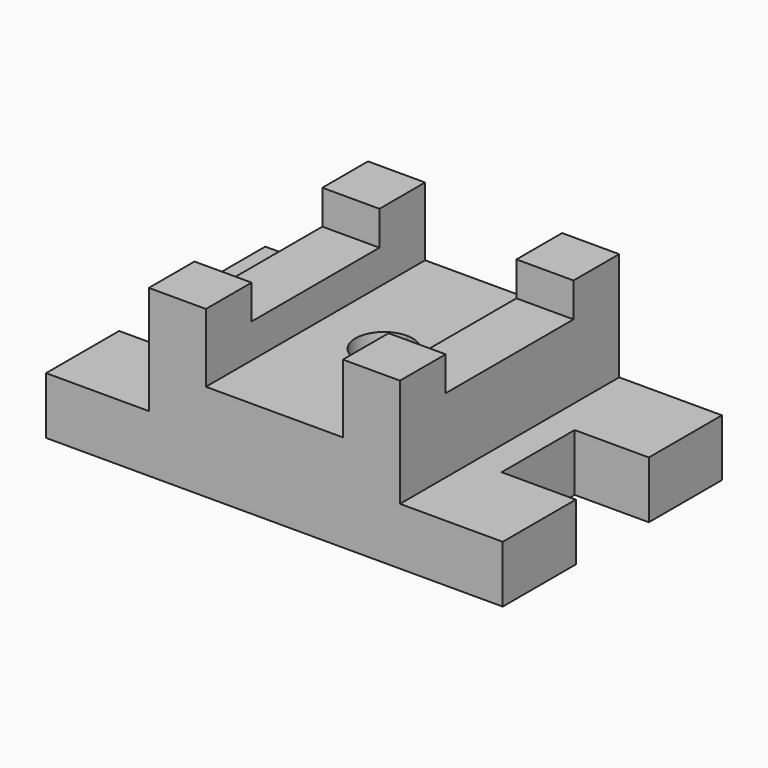
from build123d import *

# Parameters (mm, degrees)
F1_DEPTH = 53.975
F2_DEPTH = 31.75
F0_W     = 31.75
F0_H     = 31.75
F3_DEPTH = 92.075
F0_H_2   = 88.9
F4_DEPTH = 73.025


with BuildPart() as f1:
    # F0 (on Top) → F1 (new body)
    with BuildSketch(Plane.XY):
        with BuildLine():
            Line((127, 0), (88.9, 0))
            Line((88.9, 0), (88.9, -31.75))
            Line((88.9, -31.75), (88.9, -120.65))
            Line((88.9, -120.65), (88.9, -152.4))
            Line((88.9, -152.4), (127, -152.4))
            Line((127, -152.4), (127, -92.075))
            ThreePointArc((127, -92.075), (111.125, -76.2), (127, -60.325))
            Line((127, -60.325), (127, 0))
        make_face()
        with BuildLine():
            Line((165.1, 0), (127, 0))
            Line((127, 0), (127, -60.325))
            ThreePointArc((127, -60.325), (138.22532, -64.97468), (142.875, -76.2))
            ThreePointArc((142.875, -76.2), (138.22532, -87.42532), (127, -92.075))
            Line((127, -92.075), (127, -152.4))
            Line((127, -152.4), (165.1, -152.4))
            Line((165.1, -152.4), (165.1, -120.65))
            Line((165.1, -120.65), (165.1, -31.75))
            Line((165.1, -31.75), (165.1, 0))
        make_face()
    extrude(amount=F1_DEPTH)



with BuildPart() as f2:
    # F0 (on Top) → F2 (new body)
    with BuildSketch(Plane.XY):
        Polygon((57.15, 0), (0, 0), (0, -50.8), (41.275, -50.8), (41.275, -101.6), (0, -101.6), (0, -152.4), (57.15, -152.4), (57.15, -120.65), (57.15, -31.75), align=None)
        Polygon((254, 0), (196.85, 0), (196.85, -31.75), (196.85, -120.65), (196.85, -152.4), (254, -152.4), (254, -101.6), (212.725, -101.6), (212.725, -50.8), (254, -50.8), align=None)
    extrude(amount=F2_DEPTH)


with BuildPart() as f1_1:
    add(f1.part)

    add(f2.part)  # F3 merges F2
    # F0 (on Top) → F3 (join)
    with BuildSketch(Plane.XY):
        with Locations((73.025, -136.525)):
            Rectangle(F0_W, F0_H)
        with Locations((73.025, -15.875)):
            Rectangle(F0_W, F0_H)
        with Locations((180.975, -15.875)):
            Rectangle(F0_W, F0_H)
        with Locations((180.975, -136.525)):
            Rectangle(F0_W, F0_H)
    extrude(amount=F3_DEPTH)

    # F0 (on Top) → F4 (join)
    with BuildSketch(Plane.XY):
        with Locations((73.025, -76.2)):
            Rectangle(F0_W, F0_H_2)
        with Locations((180.975, -76.2)):
            Rectangle(F0_W, F0_H_2)
    extrude(amount=F4_DEPTH)


solid = f1_1.part
